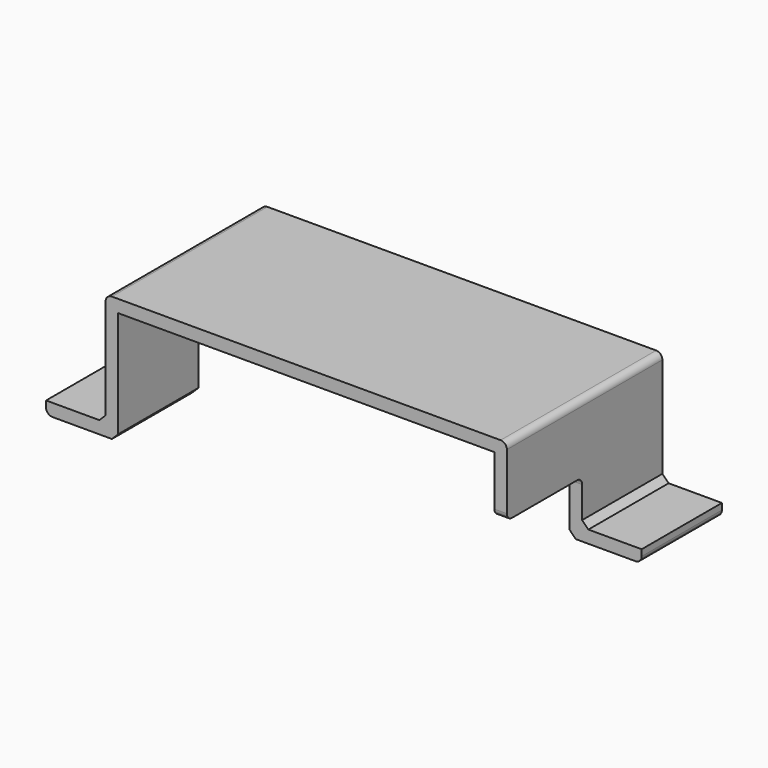
from build123d import *

# Parameters (mm, degrees)
PAD_DEPTH       = 31
SKETCH001_W     = 13.134895
SKETCH001_H     = 10.824528
POCKET_DEPTH    = 15
SKETCH002_W     = 13.312798
SKETCH002_H     = 10.464958
POCKET001_DEPTH = 15
FILLET_R        = 1
FILLET001_R     = 1
FILLET002_R     = 1
FILLET003_R     = 1
FILLET004_R     = 1
FILLET005_R     = 1
FILLET006_R     = 1
CHAMFER_SIZE    = 1
FILLET007_R     = 1
FILLET008_R     = 1
FILLET009_R     = 1
CHAMFER001_SIZE = 1
SKETCH003_W     = 10.93087
SKETCH003_H     = 6.35841
POCKET002_DEPTH = 16
SKETCH004_W     = 11.221859
SKETCH004_H     = 6.266699
POCKET003_DEPTH = 17
CHAMFER002_SIZE = 1
CHAMFER003_SIZE = 1


with BuildPart() as part:
    # Sketch → Pad (new body)
    with BuildSketch(Plane.XZ):
        Polygon((-32, 20), (32, 20), (32, 7), (41.5, 7), (41.5, 0), (30, 0), (30, 18), (-30, 18), (-30, 0), (-41.5, 0), (-41.5, 7), (-32, 7), align=None)
    extrude(amount=PAD_DEPTH)

    # Sketch001 (on Face13 of Pad) → Pocket (cut)
    with BuildSketch(Plane(origin=(0, 0, 0), x_dir=(1, 0, 0), z_dir=(0, 1, 0))):
        with Locations((-36.5674475, -3.587736)):
            Rectangle(SKETCH001_W, SKETCH001_H)
    extrude(amount=-POCKET_DEPTH, mode=Mode.SUBTRACT)

    # Sketch002 (on Face5 of Pocket) → Pocket001 (cut)
    with BuildSketch(Plane.XZ.offset(31)):
        with Locations((36.656399, 3.767521)):
            Rectangle(SKETCH002_W, SKETCH002_H)
    extrude(amount=-POCKET001_DEPTH, mode=Mode.SUBTRACT)

    # Fillet
    fillet_edges = [part.edges().sort_by_distance(p)[0] for p in [
        (32, -15.5, 20),
    ]]
    fillet(fillet_edges, radius=FILLET_R)

    # Fillet001
    fillet001_edges = [part.edges().sort_by_distance(p)[0] for p in [
        (-32, -15.5, 20),
    ]]
    fillet(fillet001_edges, radius=FILLET001_R)

    # Fillet002
    fillet002_edges = [part.edges().sort_by_distance(p)[0] for p in [
        (-31, -15, 9),
    ]]
    fillet(fillet002_edges, radius=FILLET002_R)

    # Fillet003
    fillet003_edges = [part.edges().sort_by_distance(p)[0] for p in [
        (-31, 0, 9),
    ]]
    fillet(fillet003_edges, radius=FILLET003_R)

    # Fillet004
    fillet004_edges = [part.edges().sort_by_distance(p)[0] for p in [
        (31, -16, 9),
    ]]
    fillet(fillet004_edges, radius=FILLET004_R)

    # Fillet005
    fillet005_edges = [part.edges().sort_by_distance(p)[0] for p in [
        (31, -31, 9),
    ]]
    fillet(fillet005_edges, radius=FILLET005_R)

    # Fillet006
    fillet006_edges = [part.edges().sort_by_distance(p)[0] for p in [
        (41.5, -8, 7),
    ]]
    fillet(fillet006_edges, radius=FILLET006_R)

    # Chamfer
    chamfer_edges = [part.edges().sort_by_distance(p)[0] for p in [
        (30, -8, 0),
    ]]
    chamfer(chamfer_edges, length=CHAMFER_SIZE)

    # Fillet007
    fillet007_edges = [part.edges().sort_by_distance(p)[0] for p in [
        (41.5, -8, 0),
    ]]
    fillet(fillet007_edges, radius=FILLET007_R)

    # Fillet008
    fillet008_edges = [part.edges().sort_by_distance(p)[0] for p in [
        (-41.5, -23, 7),
    ]]
    fillet(fillet008_edges, radius=FILLET008_R)

    # Fillet009
    fillet009_edges = [part.edges().sort_by_distance(p)[0] for p in [
        (-41.5, -23, 0),
    ]]
    fillet(fillet009_edges, radius=FILLET009_R)

    # Chamfer001
    chamfer001_edges = [part.edges().sort_by_distance(p)[0] for p in [
        (-30, -23, 0),
    ]]
    chamfer(chamfer001_edges, length=CHAMFER001_SIZE)

    # Sketch003 (on Face21 of Chamfer001) → Pocket002 (cut)
    with BuildSketch(Plane(origin=(0, 0, 0), x_dir=(1, 0, 0), z_dir=(0, 1, 0))):
        with Locations((37.465435, -5.179205)):
            Rectangle(SKETCH003_W, SKETCH003_H)
    extrude(amount=-POCKET002_DEPTH, mode=Mode.SUBTRACT)

    # Sketch004 (on Face1 of Pocket002) → Pocket003 (cut)
    with BuildSketch(Plane.XZ.offset(31)):
        with Locations((-37.6109295, 5.1333495)):
            Rectangle(SKETCH004_W, SKETCH004_H)
    extrude(amount=-POCKET003_DEPTH, mode=Mode.SUBTRACT)

    # Chamfer002
    chamfer002_edges = [part.edges().sort_by_distance(p)[0] for p in [
        (-32, -23, 2),
    ]]
    chamfer(chamfer002_edges, length=CHAMFER002_SIZE)

    # Chamfer003
    chamfer003_edges = [part.edges().sort_by_distance(p)[0] for p in [
        (32, -8, 2),
    ]]
    chamfer(chamfer003_edges, length=CHAMFER003_SIZE)


solid = part.part
